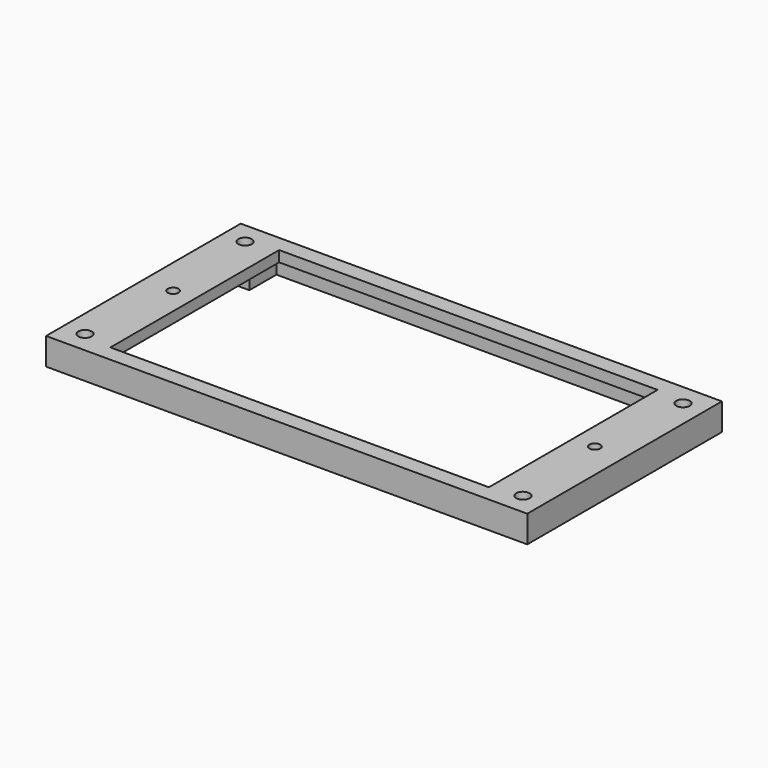
from build123d import *

# Parameters (mm, degrees)
F0_W     = 89
F0_H     = 45
F1_DEPTH = 5
F2_W     = 70
F2_H     = 39
F3_DEPTH = 25
F4_W     = 85.5
F4_H     = 41.5
F5_DEPTH = 3
F6_W     = 8
F6_H     = 8
F7_DEPTH = 3
F8_R     = 1.25
F8_R_2   = 1
F9_DEPTH = 25


with BuildPart() as f1:
    # F0 (on Top) → F1 (new body)
    with BuildSketch(Plane.XY):
        Rectangle(F0_W, F0_H)
    extrude(amount=F1_DEPTH)

    # F2 (on Top) → F3 (cut)
    with BuildSketch(Plane.XY):
        Rectangle(F2_W, F2_H)
    extrude(amount=F3_DEPTH, mode=Mode.SUBTRACT)

    # F4 (on Top) → F5 (cut)
    with BuildSketch(Plane.XY):
        Rectangle(F4_W, F4_H)
    extrude(amount=F5_DEPTH, mode=Mode.SUBTRACT)

    # F6 (on Top) → F7 (join)
    with BuildSketch(Plane.XY):
        with Locations((-40.5, 18.5)):
            Rectangle(F6_W, F6_H)
        with Locations((-40.5, -18.5)):
            Rectangle(F6_W, F6_H)
        with Locations((40.5, 18.5)):
            Rectangle(F6_W, F6_H)
        with Locations((40.5, -18.5)):
            Rectangle(F6_W, F6_H)
    extrude(amount=F7_DEPTH)

    # F8 (on Top) → F9 (cut)
    with BuildSketch(Plane.XY):
        with Locations((40.5, -18.5)):
            Circle(F8_R)
        with Locations((40.5, 18.5)):
            Circle(F8_R)
        with Locations((-40.5, -18.5)):
            Circle(F8_R)
        with Locations((-40.5, 18.5)):
            Circle(F8_R)
        with Locations((-39, 0)):
            Circle(F8_R_2)
        with Locations((39, 0)):
            Circle(F8_R_2)
    extrude(amount=F9_DEPTH, mode=Mode.SUBTRACT)


solid = f1.part
